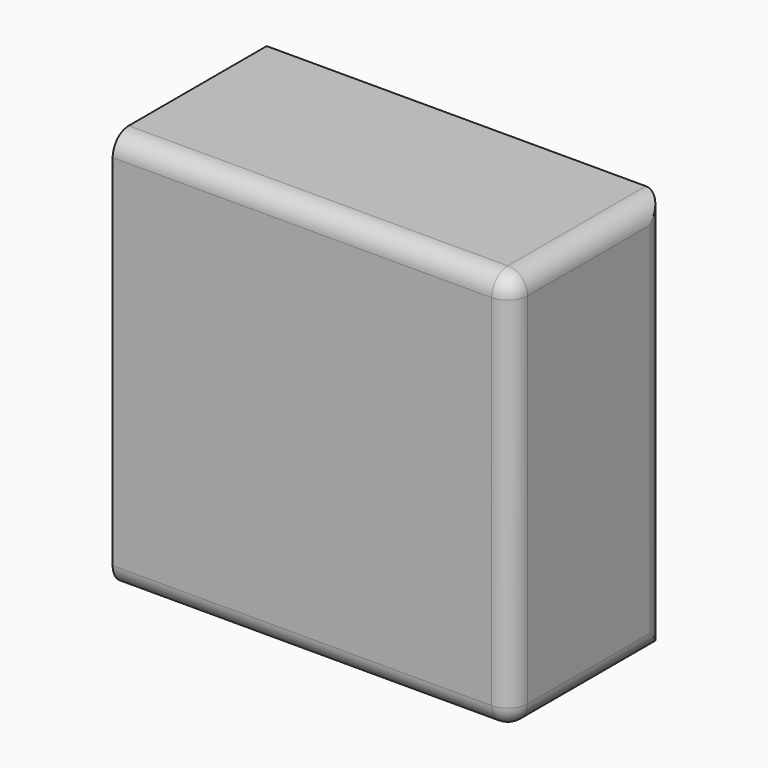
from build123d import *

# Parameters (mm, degrees)
F0_W          = 101.6
F0_H          = 101.6
F1_DEPTH      = 23.622
F1_DEPTH_BACK = 25.4
F2_R          = 5.08


with BuildPart() as f1:
    # F0 (on Front) → F1 (new body, two sides)
    with BuildSketch(Plane.XZ) as f1_sk:
        Rectangle(F0_W, F0_H)
    extrude(amount=F1_DEPTH)
    extrude(f1_sk.sketch, amount=-F1_DEPTH_BACK)

    # F2
    f2_edges = [f1.edges().sort_by_distance(p)[0] for p in [
        (0, -23.622, 50.8),
        (50.8, 0.889, -50.8),
        (50.8, -23.622, 0),
        (50.8, 0.889, 50.8),
        (50.8, 25.4, 0),
        (0, -23.622, -50.8),
    ]]
    fillet(f2_edges, radius=F2_R)


solid = f1.part
